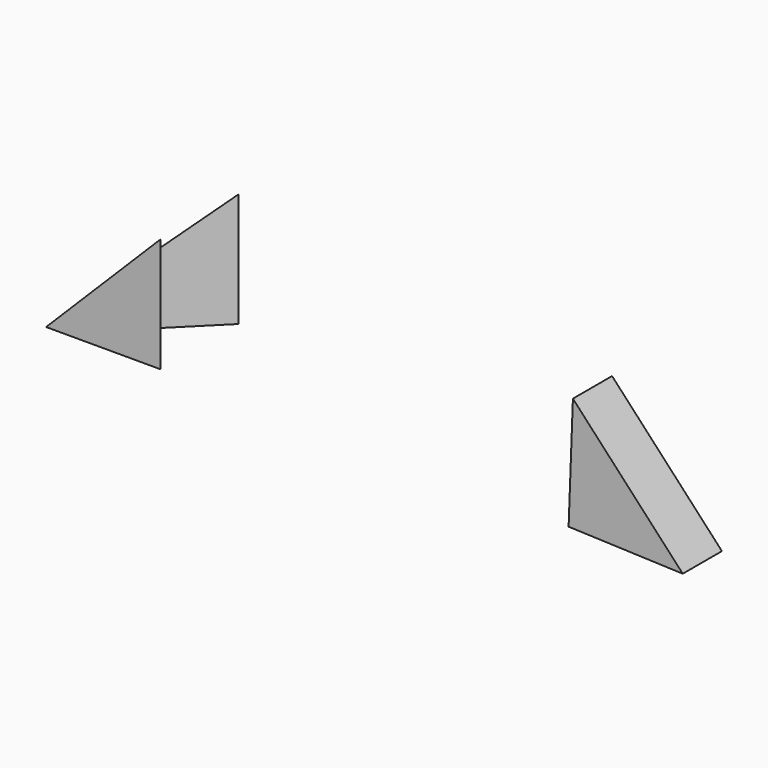
from build123d import *

# Parameters (mm, degrees)
F1_DEPTH = 38.1
F3_DEPTH = 38.1
F5_DEPTH = 38.1
F7_DEPTH = 120.182553
F9_DEPTH = 100.719053


with BuildPart() as f1:
    # F0 (on Front) → F1 (new body)
    with BuildSketch(Plane.XZ):
        Polygon((155.720153, 346.429633), (66.820153, 257.529633), (155.720153, 257.529633), align=None)
    extrude(amount=F1_DEPTH)

    # F8 (on face) → F9 (cut, through all)
    with BuildSketch(Plane(origin=(0, 0, 257.529633), x_dir=(1, 0, 0), z_dir=(0, 0, -1))):
        Polygon((155.720153, 0), (155.720153, 38.1), (117.620153, 0), align=None)
    extrude(amount=-F9_DEPTH, mode=Mode.SUBTRACT)


with BuildPart() as f3:
    # F2 (on Front) → F3 (new body)
    with BuildSketch(Plane.XZ):
        Polygon((205.645326, 358.247686), (219.244342, 257.561904), (319.930124, 271.16092), align=None)
    extrude(amount=F3_DEPTH)

    # F6 (on face) → F7 (cut, through all)
    with BuildSketch(Plane(origin=(-30.236229, 0, 223.866081), x_dir=(0.991002, 0, 0.133849), z_dir=(0.133849, 0, -0.991002))):
        Polygon((289.845832, 0), (251.745832, 38.1), (251.745832, 0), align=None)
    extrude(amount=-F7_DEPTH, mode=Mode.SUBTRACT)


with BuildPart() as f5:
    # F4 (on Front) → F5 (new body)
    with BuildSketch(Plane.XZ):
        Polygon((562.326928, 249.629819), (476.835641, 341.812571), (473.489908, 252.975551), align=None)
    extrude(amount=F5_DEPTH)


with BuildPart() as f11_1:
    # F11: instance of F1
    add(f1.part.mirror(Plane.XZ))


solid = Compound([f1.part, f5.part, f11_1.part])
